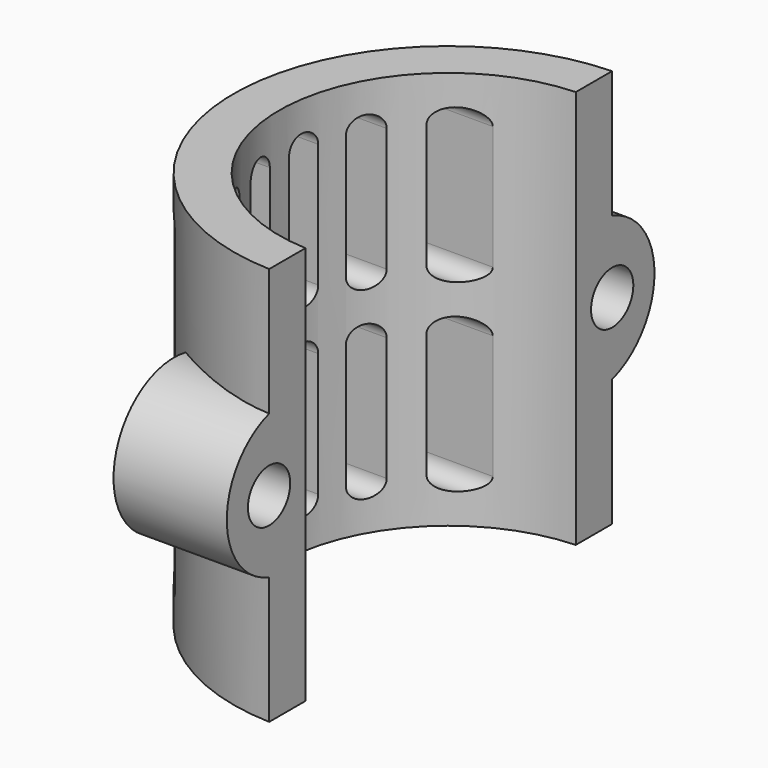
from build123d import *

# Parameters (mm, degrees)
BOX_W           = 10
BOX_H           = 38
BOX_DEPTH       = 36
PAD001_DEPTH    = 26.4
PAD004_DEPTH    = 8
SKETCH037_R     = 1.75
POCKET002_DEPTH = 14.201


with BuildPart() as cube:
    # Box → Box (new body)
    with BuildSketch(Plane(origin=(-0.5, -19, 16), x_dir=(1, 0, 0), z_dir=(0, 0, 1))):
        with Locations((5, 19)):
            Rectangle(BOX_W, BOX_H)
    extrude(amount=BOX_DEPTH)


with BuildPart() as ventedclip01:
    # Sketch031 → Pad001 (new body)
    with BuildSketch(Plane(origin=(0, 0, 19.5), x_dir=(-1, 0, 0), z_dir=(0, 0, 1))):
        with BuildLine():
            ThreePointArc((0, -11.2), (11.2, 0), (0, 11.2))
            Line((0, 11.2), (0, 14.2))
            ThreePointArc((0, -14.2), (14.2, 0), (0, 14.2))
            Line((0, -11.2), (0, -14.2))
        make_face()
    extrude(amount=PAD001_DEPTH)

    # Sketch036 → Pad004 (new body)
    with BuildSketch(Plane(origin=(0, 0, 19.5), x_dir=(0, 1, 0), z_dir=(1, 0, 0))):
        with BuildLine():
            ThreePointArc((-11.2, 17.969696), (-17.7, 13.2), (-11.2, 8.430304))
            Line((-11.2, 17.969696), (-11.2, 8.430304))
        make_face()
        with BuildLine():
            ThreePointArc((11.2, 8.430304), (17.7, 13.2), (11.2, 17.969696))
            Line((11.2, 17.969696), (11.2, 8.430304))
        make_face()
    extrude(amount=-PAD004_DEPTH)

    # Sketch037 → Pocket002 (cut, through all)
    with BuildSketch(Plane(origin=(0, 0, 19.5), x_dir=(0, 1, 0), z_dir=(1, 0, 0))):
        with Locations((-14.2, 13.2)):
            Circle(SKETCH037_R)
        with Locations((14.2, 13.2)):
            Circle(SKETCH037_R)
        with BuildLine():
            ThreePointArc((-8, 11.200011), (-9, 12.2), (-10, 11.200012))
            Line((-10, 11.200012), (-10, 3))
            ThreePointArc((-10, 3), (-9, 2), (-8, 3))
            Line((-8, 11.200011), (-8, 3))
        make_face()
        with BuildLine():
            ThreePointArc((-4.4, 11.200011), (-5.4, 12.2), (-6.4, 11.200012))
            Line((-6.4, 11.200012), (-6.4, 3))
            ThreePointArc((-6.4, 3), (-5.4, 2), (-4.4, 3))
            Line((-4.4, 11.200011), (-4.4, 3))
        make_face()
        with BuildLine():
            ThreePointArc((-0.8, 11.200011), (-1.8, 12.2), (-2.8, 11.200012))
            Line((-2.8, 11.200012), (-2.8, 3))
            ThreePointArc((-2.8, 3), (-1.8, 2), (-0.8, 3))
            Line((-0.8, 11.200011), (-0.8, 3))
        make_face()
        with BuildLine():
            ThreePointArc((2.8, 11.200011), (1.8, 12.2), (0.8, 11.200012))
            Line((0.8, 11.200012), (0.8, 3))
            ThreePointArc((0.8, 3), (1.8, 2), (2.8, 3))
            Line((2.8, 11.200011), (2.8, 3))
        make_face()
        with BuildLine():
            ThreePointArc((6.4, 11.200011), (5.4, 12.2), (4.4, 11.200012))
            Line((4.4, 11.200012), (4.4, 3))
            ThreePointArc((4.4, 3), (5.4, 2), (6.4, 3))
            Line((6.4, 11.200011), (6.4, 3))
        make_face()
        with BuildLine():
            ThreePointArc((10, 11.200011), (9, 12.2), (8, 11.200011))
            Line((8, 11.200011), (8, 3))
            ThreePointArc((8, 3), (9, 2), (10, 3))
            Line((10, 11.200011), (10, 3))
        make_face()
        with BuildLine():
            ThreePointArc((8, 15.199988), (9, 14.2), (10, 15.199988))
            Line((10, 15.199988), (10, 23.399999))
            ThreePointArc((10, 23.399999), (9, 24.399999), (8, 23.399999))
            Line((8, 15.199988), (8, 23.399999))
        make_face()
        with BuildLine():
            ThreePointArc((4.4, 15.199987), (5.4, 14.2), (6.4, 15.199988))
            Line((6.4, 15.199988), (6.4, 23.399999))
            ThreePointArc((6.4, 23.399999), (5.4, 24.399999), (4.4, 23.399999))
            Line((4.4, 15.199987), (4.4, 23.399999))
        make_face()
        with BuildLine():
            ThreePointArc((0.8, 15.199987), (1.8, 14.2), (2.8, 15.199988))
            Line((2.8, 15.199988), (2.8, 23.399999))
            ThreePointArc((2.8, 23.399999), (1.8, 24.399999), (0.8, 23.399999))
            Line((0.8, 15.199987), (0.8, 23.399999))
        make_face()
        with BuildLine():
            ThreePointArc((-2.8, 15.199987), (-1.8, 14.2), (-0.8, 15.199988))
            Line((-0.8, 15.199988), (-0.8, 23.399999))
            ThreePointArc((-0.8, 23.399999), (-1.8, 24.399999), (-2.8, 23.399999))
            Line((-2.8, 15.199987), (-2.8, 23.399999))
        make_face()
        with BuildLine():
            ThreePointArc((-10, 15.199987), (-9, 14.2), (-8, 15.199988))
            Line((-8, 15.199988), (-8, 23.399999))
            ThreePointArc((-8, 23.399999), (-9, 24.399999), (-10, 23.399999))
            Line((-10, 15.199987), (-10, 23.399999))
        make_face()
        with BuildLine():
            ThreePointArc((-6.4, 15.199987), (-5.4, 14.2), (-4.4, 15.199988))
            Line((-4.4, 15.199988), (-4.4, 23.399999))
            ThreePointArc((-4.4, 23.399999), (-5.4, 24.399999), (-6.4, 23.399999))
            Line((-6.4, 15.199987), (-6.4, 23.399999))
        make_face()
    extrude(amount=-POCKET002_DEPTH, mode=Mode.SUBTRACT)

    # Cut003: cut Cube
    add(cube.part, mode=Mode.SUBTRACT)


solid = ventedclip01.part
